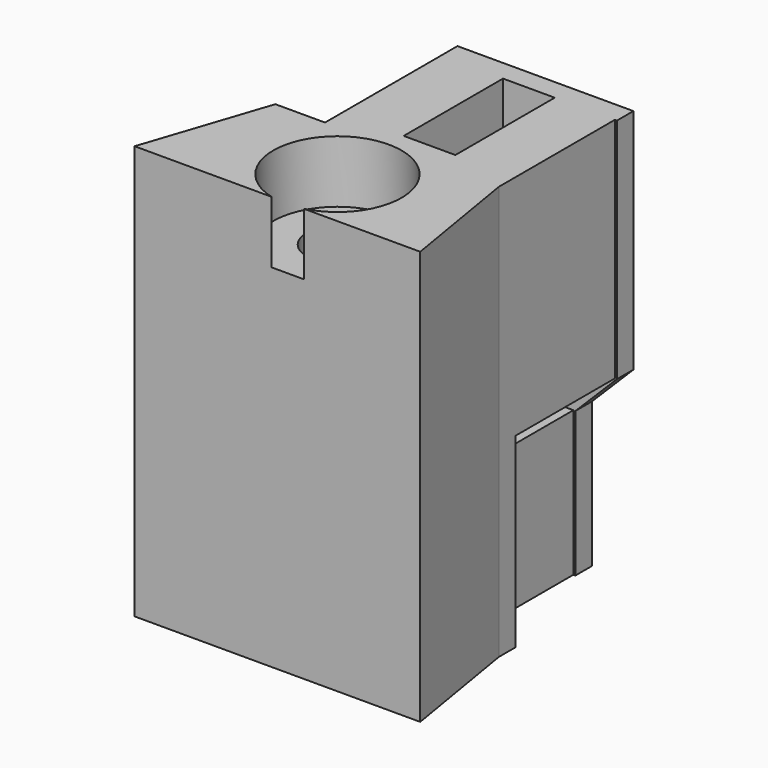
from build123d import *

# Parameters (mm, degrees)
SKETCH042_R     = 1.5
PAD016_DEPTH    = 20
SKETCH043_R     = 3.1
POCKET016_DEPTH = 3
POCKET017_DEPTH = 7
CHAMFER010_SIZE = 2.4
CHAMFER011_SIZE = 2
PAD018_DEPTH    = 1


with BuildPart() as part:
    # Sketch042 → Pad016 (new body)
    with BuildSketch(Plane.XY):
        Polygon((-5.9, 0), (7.9, 0), (6.9, 6), (6.9, 14), (-1.5, 14), (-1.5, 6), (-3.9, 6), align=None)
        with Locations((1.5, 3)):
            Circle(SKETCH042_R, mode=Mode.SUBTRACT)
    extrude(amount=PAD016_DEPTH)

    # Sketch043 (on Face10 of Pad016) → Pocket016 (cut)
    with BuildSketch(Plane.XY.offset(20)):
        with Locations((1.5, 3)):
            Circle(SKETCH043_R)
    extrude(amount=-POCKET016_DEPTH, mode=Mode.SUBTRACT)

    # Sketch044 (on Face10 of Pocket016) → Pocket017 (cut)
    with BuildSketch(Plane(origin=(0, 14, 0), x_dir=(-1, 0, 0), z_dir=(0, 1, 0))):
        Polygon((-4, 20), (-1.5, 20), (-1.5, 9), (1.5, 9), (1.5, 7), (-4.9, 7), (-4.9, 0), (-6.9, 0), (-6.9, 9), (-4, 9), align=None)
    extrude(amount=-POCKET017_DEPTH, mode=Mode.SUBTRACT)

    # Chamfer010
    chamfer010_edges = [part.edges().sort_by_distance(p)[0] for p in [
        (4, 10.5, 9),
        (1.5, 10.5, 9),
    ]]
    chamfer(chamfer010_edges, length=CHAMFER010_SIZE)

    # Chamfer011
    chamfer011_edges = [part.edges().sort_by_distance(p)[0] for p in [
        (-1.5, 10.5, 7),
    ]]
    chamfer(chamfer011_edges, length=CHAMFER011_SIZE)

    # Sketch046 (on Face17 of Chamfer011) → Pad018 (join)
    with BuildSketch(Plane(origin=(0, 14, 0), x_dir=(-1, 0, 0), z_dir=(0, 1, 0))):
        Polygon((-7, 20), (1.4, 20), (1.4, 0), (-5, 0), (-5, 7), (-7, 9), align=None)
    extrude(amount=-PAD018_DEPTH)


with BuildPart() as part_1:
    # Body008 placement: moved
    add(part.part.moved(Location((0, 21.5, 38))))


solid = part_1.part
